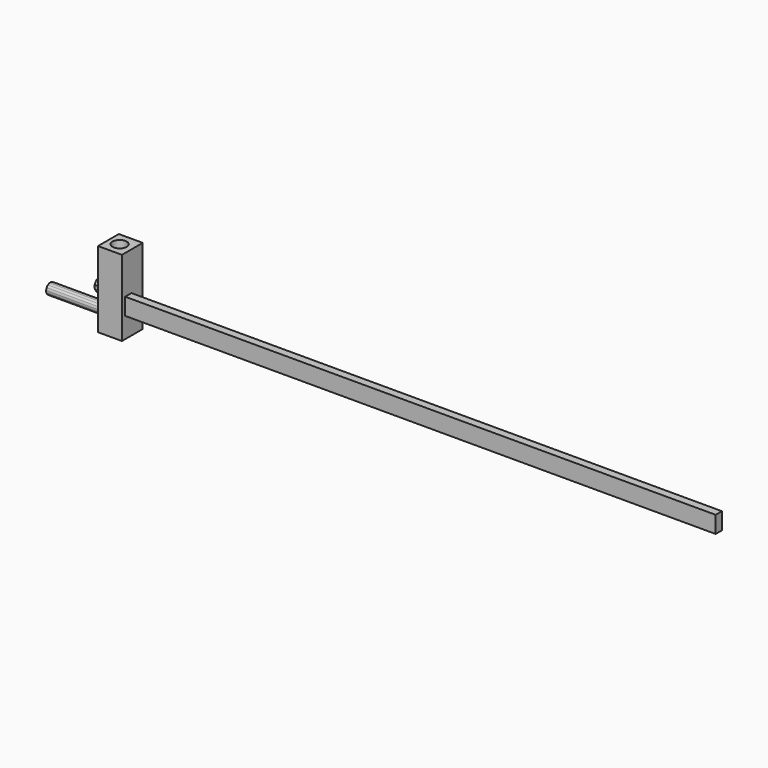
from build123d import *

# Parameters (mm, degrees)
F0_W      = 72.000258
F0_H      = 78.241773
F1_DEPTH  = 228.6
F3_DEPTH  = 25.4
F4_R      = 21.565996
F5_DEPTH  = 177.8
F6_R      = 13.479232
F7_DEPTH  = 76.2
F8_W      = 23.628573
F8_H      = 50.823714
F9_DEPTH  = 1778
F11_DEPTH = 177.8


with BuildPart() as f1:
    # F0 (on Top) → F1 (new body)
    with BuildSketch(Plane.XY):
        with Locations((36.000129, -39.120886)):
            Rectangle(F0_W, F0_H)
    extrude(amount=F1_DEPTH)

    # F2 (on face) → F3 (join)
    with BuildSketch(Plane(origin=(0, 0, 0), x_dir=(0, -1, 0), z_dir=(-1, 0, 0))):
        Polygon((59.31577, 109.609046), (52.362666, 120.328418), (40.436798, 124.913641), (28.093442, 121.613314), (20.04734, 111.688051), (19.371831, 98.928965), (26.324935, 88.209593), (38.250803, 83.62437), (50.594159, 86.924697), (58.64026, 96.84996), align=None)
    extrude(amount=F3_DEPTH)

    # F4 (on face) → F5 (cut)
    with BuildSketch(Plane.XY.offset(228.6)):
        with Locations((33.99393, -39.343797)):
            Circle(F4_R)
    extrude(amount=-F5_DEPTH, mode=Mode.SUBTRACT)

    # F6 (on face) → F7 (cut)
    with BuildSketch(Plane(origin=(-25.4, 0, 0), x_dir=(0, -1, 0), z_dir=(-1, 0, 0))):
        with Locations((38.675066, 103.229503)):
            Circle(F6_R)
    extrude(amount=-F7_DEPTH, mode=Mode.SUBTRACT)

    # F8 (on face) → F9 (join)
    with BuildSketch(Plane.YZ.offset(72.000258)):
        with Locations((-54.278838, 87.327758)):
            Rectangle(F8_W, F8_H)
    extrude(amount=F9_DEPTH)

    # F10 (on face) → F11 (join)
    with BuildSketch(Plane(origin=(0, 0, 0), x_dir=(0, -1, 0), z_dir=(-1, 0, 0))):
        Polygon((38.63069, 56.816015), (31.828527, 56.816015), (25.614442, 54.049327), (21.062907, 48.994335), (18.960923, 42.525093), (19.671943, 35.760194), (23.073024, 29.869348), (28.576089, 25.871137), (35.229608, 24.456888), (41.883128, 25.871137), (47.386193, 29.869348), (50.787274, 35.760194), (51.498294, 42.525093), (49.39631, 48.994335), (44.844775, 54.049327), align=None)
    extrude(amount=F11_DEPTH)


solid = f1.part
